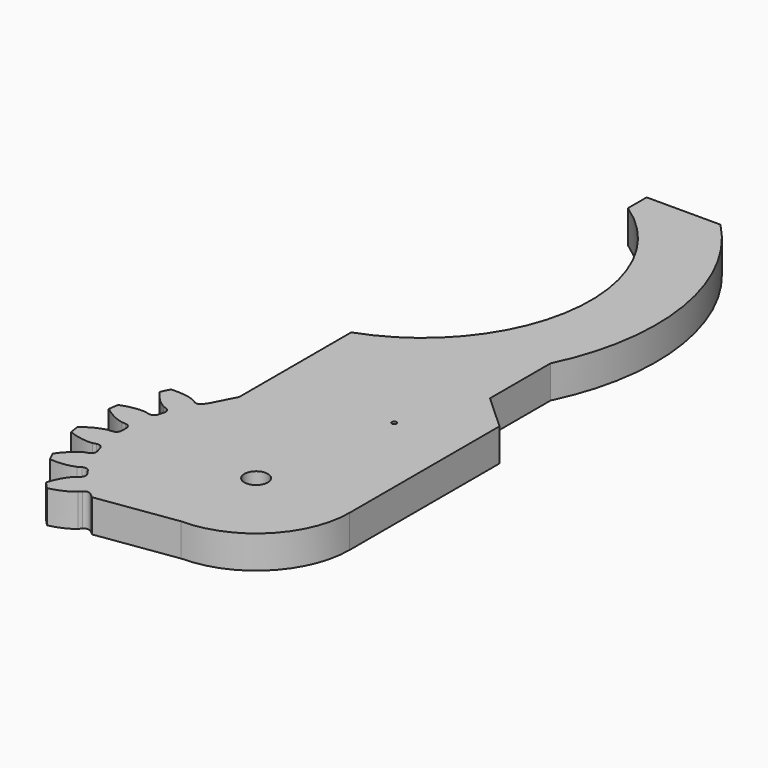
from build123d import *

# Parameters (mm, degrees)
CYLINDER002_R     = 0.5
CYLINDER002_DEPTH = 15
PAD005_DEPTH      = 10
CYLINDER001_R     = 2.5
CYLINDER001_DEPTH = 30
PAD_DEPTH         = 7
PAD001_DEPTH      = 7


with BuildPart() as fixation_servo:
    # Cylinder002 → Cylinder002 (new body)
    with BuildSketch(Plane(origin=(38, 30, 0), x_dir=(1, 0, 0), z_dir=(0, 0, 1))):
        Circle(CYLINDER002_R)
    extrude(amount=CYLINDER002_DEPTH)


with BuildPart() as gearcutter_d:
    # Sketch007 → Pad005 (new body)
    with BuildSketch(Plane.XY):
        with BuildLine():
            Line((20, 31.95888), (45.304215, 31.95888))
            Line((45.304215, 31.95888), (45.304215, -33.652056))
            Line((45.304215, -33.652056), (23.213182, -33.652056))
            Line((-17.372387, -39.01239), (23.213182, -33.652056))
            Line((-25.984375, -33.578197), (-17.372387, -39.01239))
            Line((-17.23691, -22.507347), (-25.984375, -33.578197))
            Line((7e-06, -20), (-17.23691, -22.507347))
            ThreePointArc((7e-06, -20), (14.142138, -14.142133), (20, 0))
            Line((20, 0), (20, 31.95888))
        make_face()
        Polygon((-20, 22.185684), (-22.978563, 16.381247), (-30, 23.81991), (-24.00174, 30), align=None)
    extrude(amount=PAD005_DEPTH)


with BuildPart() as hole:
    # Cylinder001 → Cylinder001 (new body)
    with BuildSketch(Plane.XY.offset(-10)):
        Circle(CYLINDER001_R)
    extrude(amount=CYLINDER001_DEPTH)


with BuildPart() as cut002:
    # InvoluteGear → Pad (new body)
    with BuildSketch(Plane.XY):
        with BuildLine():
            Line((29.216017, -2.627852), (30.02668, -2.698596))
            add(Edge.make_bspline(
                [(30.02668, -2.698596), (30.269336, -2.702327), (31.240634, -2.684194), (32.940327, -2.265756), (35.058609, -1.065575)],
                knots=[0, 0, 0, 0, 0, 1, 1, 1, 1, 1], degree=4))
            ThreePointArc((35.058609, -1.065575), (35.074799, 0), (35.058609, 1.065575))
            add(Edge.make_bspline(
                [(35.058609, 1.065575), (32.940327, 2.265756), (31.240634, 2.684194), (30.269336, 2.702327), (30.02668, 2.698596)],
                knots=[0, 0, 0, 0, 0, 1, 1, 1, 1, 1], degree=4))
            Line((30.02668, 2.698596), (29.216017, 2.627852))
            ThreePointArc((29.216017, 2.627852), (28.398075, 2.874673), (27.979368, 3.61941))
            ThreePointArc((27.979368, 3.61941), (27.89739, 4.204855), (27.803163, 4.788454))
            ThreePointArc((27.803163, 4.788454), (27.983753, 5.62352), (28.692604, 6.100468))
            Line((28.692604, 6.100468), (29.488104, 6.271815))
            add(Edge.make_bspline(
                [(29.488104, 6.271815), (29.72108, 6.339774), (30.64388, 6.643396), (32.144724, 7.544237), (33.815137, 9.315472)],
                knots=[0, 0, 0, 0, 0, 1, 1, 1, 1, 1], degree=4))
            ThreePointArc((33.815137, 9.315472), (33.516524, 10.338478), (33.18697, 11.351941))
            add(Edge.make_bspline(
                [(33.18697, 11.351941), (30.809038, 11.874427), (29.06152, 11.773281), (28.12803, 11.504313), (27.897254, 11.429224)],
                knots=[0, 0, 0, 0, 0, 1, 1, 1, 1, 1], degree=4))
            Line((27.897254, 11.429224), (27.143458, 11.122676))
            ThreePointArc((27.143458, 11.122676), (26.289104, 11.117439), (25.669483, 11.705673))
            ThreePointArc((25.669483, 11.705673), (25.418584, 12.240945), (25.156525, 12.770842))
            ThreePointArc((25.156525, 12.770842), (25.082952, 13.622039), (25.619728, 14.286735))
            Line((25.619728, 14.286735), (26.32938, 14.684947))
            add(Edge.make_bspline(
                [(26.32938, 14.684947), (26.531974, 14.818557), (27.324283, 15.380691), (28.492921, 16.683892), (29.567042, 18.868799)],
                knots=[0, 0, 0, 0, 0, 1, 1, 1, 1, 1], degree=4))
            ThreePointArc((29.567042, 18.868799), (28.980159, 19.758338), (28.366523, 20.629637))
            add(Edge.make_bspline(
                [(28.366523, 20.629637), (25.94023, 20.428003), (24.300163, 19.816261), (23.487425, 19.284092), (23.289034, 19.144315)],
                knots=[0, 0, 0, 0, 0, 1, 1, 1, 1, 1], degree=4))
            Line((23.289034, 19.144315), (22.659084, 18.629202))
            ThreePointArc((22.659084, 18.629202), (21.84423, 18.372372), (21.078752, 18.751836))
            ThreePointArc((21.078752, 18.751836), (20.681226, 19.189373), (20.274619, 19.618485))
            ThreePointArc((20.274619, 19.618485), (19.95342, 20.41018), (20.270426, 21.203563))
            Line((20.270426, 21.203563), (20.831176, 21.793257))
            add(Edge.make_bspline(
                [(20.831176, 21.793257), (20.985387, 21.980647), (21.576804, 22.751344), (22.309397, 24.341109), (22.691785, 26.745549)],
                knots=[0, 0, 0, 0, 0, 1, 1, 1, 1, 1], degree=4))
            ThreePointArc((22.691785, 26.745549), (21.868779, 27.422582), (21.025585, 28.074299))
            add(Edge.make_bspline(
                [(21.025585, 28.074299), (18.766519, 27.166461), (17.37963, 26.098479), (16.759858, 25.350393), (16.611482, 25.15835)],
                knots=[0, 0, 0, 0, 0, 1, 1, 1, 1, 1], degree=4))
            Line((16.611482, 25.15835), (16.161351, 24.480441))
            ThreePointArc((16.161351, 24.480441), (15.4584, 23.994839), (14.615082, 24.131816))
            ThreePointArc((14.615082, 24.131816), (14.10625, 24.432742), (13.591225, 24.72294))
            ThreePointArc((13.591225, 24.72294), (13.05094, 25.384787), (13.120008, 26.236361))
            Line((13.120008, 26.236361), (13.48203, 26.96514))
            add(Edge.make_bspline(
                [(13.48203, 26.96514), (13.574155, 27.18966), (13.912131, 28.10044), (14.143586, 29.835512), (13.800264, 32.245841)],
                knots=[0, 0, 0, 0, 0, 1, 1, 1, 1, 1], degree=4))
            ThreePointArc((13.800264, 32.245841), (12.814263, 32.65021), (11.816433, 33.024437))
            add(Edge.make_bspline(
                [(11.816433, 33.024437), (9.92532, 31.49106), (8.91484, 30.061732), (8.543105, 29.164202), (8.457926, 28.936956)],
                knots=[0, 0, 0, 0, 0, 1, 1, 1, 1, 1], degree=4))
            Line((8.457926, 28.936956), (8.227611, 28.156485))
            ThreePointArc((8.227611, 28.156485), (7.699024, 27.485259), (6.852797, 27.367578))
            ThreePointArc((6.852797, 27.367578), (6.277872, 27.505154), (5.70019, 27.630653))
            ThreePointArc((5.70019, 27.630653), (4.988826, 28.103844), (4.80382, 28.937943))
            Line((4.80382, 28.937943), (4.934946, 29.741053))
            add(Edge.make_bspline(
                [(4.934946, 29.741053), (4.956801, 29.982752), (5.011304, 30.952689), (4.721054, 32.678899), (3.682528, 34.880948)],
                knots=[0, 0, 0, 0, 0, 1, 1, 1, 1, 1], degree=4))
            ThreePointArc((3.682528, 34.880948), (2.621143, 34.976723), (1.557338, 35.040209))
            add(Edge.make_bspline(
                [(1.557338, 35.040209), (0.202213, 33.01754), (-0.342073, 31.353869), (-0.43274, 30.386642), (-0.447153, 30.144385)],
                knots=[0, 0, 0, 0, 0, 1, 1, 1, 1, 1], degree=4))
            Line((-0.447153, 30.144385), (-0.437188, 29.330703))
            ThreePointArc((-0.437188, 29.330703), (-0.744444, 28.533493), (-1.518389, 28.171611))
            ThreePointArc((-1.518389, 28.171611), (-2.108323, 28.133612), (-2.697331, 28.083261))
            ThreePointArc((-2.697331, 28.083261), (-3.516567, 28.325751), (-3.939209, 29.068262))
            Line((-3.939209, 29.068262), (-4.050629, 29.874342))
            add(Edge.make_bspline(
                [(-4.050629, 29.874342), (-4.100987, 30.111745), (-4.3348, 31.054656), (-5.120964, 32.618623), (-6.762416, 34.416729)],
                knots=[0, 0, 0, 0, 0, 1, 1, 1, 1, 1], degree=4))
            ThreePointArc((-6.762416, 34.416729), (-7.804877, 34.195401), (-8.840133, 33.942504))
            add(Edge.make_bspline(
                [(-8.840133, 33.942504), (-9.538861, 31.610267), (-9.56859, 29.860077), (-9.370135, 28.909097), (-9.312501, 28.673354)],
                knots=[0, 0, 0, 0, 0, 1, 1, 1, 1, 1], degree=4))
            Line((-9.312501, 28.673354), (-9.063142, 27.898758))
            ThreePointArc((-9.063142, 27.898758), (-9.121765, 27.046401), (-9.754659, 26.472472))
            ThreePointArc((-9.754659, 26.472472), (-10.307184, 26.262276), (-10.855183, 26.040548))
            ThreePointArc((-10.855183, 26.040548), (-11.709498, 26.030791), (-12.332222, 26.615739))
            Line((-12.332222, 26.615739), (-12.676288, 27.353165))
            add(Edge.make_bspline(
                [(-12.676288, 27.353165), (-12.794385, 27.565178), (-13.295737, 28.39728), (-14.507962, 29.660038), (-16.60649, 30.894434)],
                knots=[0, 0, 0, 0, 0, 1, 1, 1, 1, 1], degree=4))
            ThreePointArc((-16.60649, 30.894434), (-17.537399, 30.375667), (-18.452119, 29.828859))
            add(Edge.make_bspline(
                [(-18.452119, 29.828859), (-18.432366, 27.394282), (-17.944897, 25.713086), (-17.474952, 24.862851), (-17.350392, 24.65457)],
                knots=[0, 0, 0, 0, 0, 1, 1, 1, 1, 1], degree=4))
            Line((-17.350392, 24.65457), (-16.883795, 23.987887))
            ThreePointArc((-16.883795, 23.987887), (-16.688578, 23.156118), (-17.124185, 22.421138))
            ThreePointArc((-17.124185, 22.421138), (-17.590206, 22.057421), (-18.048504, 21.684019))
            ThreePointArc((-18.048504, 21.684019), (-18.861988, 21.422881), (-19.629463, 21.79829))
            Line((-19.629463, 21.79829), (-20.175603, 22.401539))
            add(Edge.make_bspline(
                [(-20.175603, 22.401539), (-20.350945, 22.569323), (-21.07529, 23.216681), (-22.605863, 24.066029), (-24.975004, 24.627032)],
                knots=[0, 0, 0, 0, 0, 1, 1, 1, 1, 1], degree=4))
            ThreePointArc((-24.975004, 24.627032), (-25.711647, 23.856922), (-26.424554, 23.064789))
            add(Edge.make_bspline(
                [(-26.424554, 23.064789), (-25.688074, 20.744196), (-24.726721, 19.281374), (-24.027043, 18.607432), (-23.846625, 18.445118)],
                knots=[0, 0, 0, 0, 0, 1, 1, 1, 1, 1], degree=4))
            Line((-23.846625, 18.445118), (-23.204249, 17.945586))
            ThreePointArc((-23.204249, 17.945586), (-22.772537, 17.208312), (-22.972152, 16.377588))
            ThreePointArc((-22.972152, 16.377588), (-23.310261, 15.892667), (-23.638136, 15.400768))
            ThreePointArc((-23.638136, 15.400768), (-24.338508, 14.911454), (-25.182539, 15.043968))
            Line((-25.182539, 15.043968), (-25.882227, 15.459439))
            add(Edge.make_bspline(
                [(-25.882227, 15.459439), (-26.099234, 15.568085), (-26.982211, 15.973178), (-28.695135, 16.333648), (-31.12438, 16.17141)],
                knots=[0, 0, 0, 0, 0, 1, 1, 1, 1, 1], degree=4))
            ThreePointArc((-31.12438, 16.17141), (-31.601302, 15.218385), (-32.049051, 14.251311))
            add(Edge.make_bspline(
                [(-32.049051, 14.251311), (-30.661284, 12.250897), (-29.311467, 11.136428), (-28.444225, 10.698661), (-28.22398, 10.596737)],
                knots=[0, 0, 0, 0, 0, 1, 1, 1, 1, 1], degree=4))
            Line((-28.22398, 10.596737), (-27.462904, 10.308742))
            ThreePointArc((-27.462904, 10.308742), (-26.833056, 9.731472), (-26.778943, 8.878817))
            ThreePointArc((-26.778943, 8.878817), (-26.959098, 8.31578), (-27.127416, 7.749093))
            ThreePointArc((-27.127416, 7.749093), (-27.652445, 7.075079), (-28.498037, 6.952923))
            Line((-28.498037, 6.952923), (-29.289102, 7.143699))
            add(Edge.make_bspline(
                [(-29.289102, 7.143699), (-29.528492, 7.183554), (-30.491644, 7.310388), (-32.234718, 7.14995), (-34.508218, 6.278888)],
                knots=[0, 0, 0, 0, 0, 1, 1, 1, 1, 1], degree=4))
            ThreePointArc((-34.508218, 6.278888), (-34.683042, 5.227628), (-34.825849, 4.171541))
            add(Edge.make_bspline(
                [(-34.825849, 4.171541), (-32.910105, 2.669052), (-31.29176, 2.001961), (-30.334014, 1.839267), (-30.093511, 1.80679)],
                knots=[0, 0, 0, 0, 0, 1, 1, 1, 1, 1], degree=4))
            Line((-30.093511, 1.80679), (-29.281359, 1.75592))
            ThreePointArc((-29.281359, 1.75592), (-28.50934, 1.389948), (-28.206307, 0.591124))
            ThreePointArc((-28.206307, 0.591124), (-28.2125, 0), (-28.206307, -0.591124))
            ThreePointArc((-28.206307, -0.591124), (-28.50934, -1.389948), (-29.281359, -1.75592))
            Line((-29.281359, -1.75592), (-30.093511, -1.80679))
            add(Edge.make_bspline(
                [(-30.093511, -1.80679), (-30.334014, -1.839267), (-31.29176, -2.001961), (-32.910105, -2.669052), (-34.825849, -4.171541)],
                knots=[0, 0, 0, 0, 0, 1, 1, 1, 1, 1], degree=4))
            ThreePointArc((-34.825849, -4.171541), (-34.683042, -5.227628), (-34.508218, -6.278888))
            add(Edge.make_bspline(
                [(-34.508218, -6.278888), (-32.234718, -7.14995), (-30.491644, -7.310388), (-29.528492, -7.183554), (-29.289102, -7.143699)],
                knots=[0, 0, 0, 0, 0, 1, 1, 1, 1, 1], degree=4))
            Line((-29.289102, -7.143699), (-28.498037, -6.952923))
            ThreePointArc((-28.498037, -6.952923), (-27.652445, -7.075079), (-27.127416, -7.749093))
            ThreePointArc((-27.127416, -7.749093), (-26.959098, -8.31578), (-26.778943, -8.878817))
            ThreePointArc((-26.778943, -8.878817), (-26.833056, -9.731472), (-27.462904, -10.308742))
            Line((-27.462904, -10.308742), (-28.22398, -10.596737))
            add(Edge.make_bspline(
                [(-28.22398, -10.596737), (-28.444225, -10.698661), (-29.311467, -11.136428), (-30.661284, -12.250897), (-32.049051, -14.251311)],
                knots=[0, 0, 0, 0, 0, 1, 1, 1, 1, 1], degree=4))
            ThreePointArc((-32.049051, -14.251311), (-31.601302, -15.218385), (-31.12438, -16.17141))
            add(Edge.make_bspline(
                [(-31.12438, -16.17141), (-28.695135, -16.333648), (-26.982211, -15.973178), (-26.099234, -15.568085), (-25.882227, -15.459439)],
                knots=[0, 0, 0, 0, 0, 1, 1, 1, 1, 1], degree=4))
            Line((-25.882227, -15.459439), (-25.182539, -15.043968))
            ThreePointArc((-25.182539, -15.043968), (-24.338508, -14.911454), (-23.638136, -15.400768))
            ThreePointArc((-23.638136, -15.400768), (-23.310261, -15.892667), (-22.972152, -16.377588))
            ThreePointArc((-22.972152, -16.377588), (-22.772537, -17.208312), (-23.204249, -17.945586))
            Line((-23.204249, -17.945586), (-23.846625, -18.445118))
            add(Edge.make_bspline(
                [(-23.846625, -18.445118), (-24.027043, -18.607432), (-24.726721, -19.281374), (-25.688074, -20.744196), (-26.424554, -23.064789)],
                knots=[0, 0, 0, 0, 0, 1, 1, 1, 1, 1], degree=4))
            ThreePointArc((-26.424554, -23.064789), (-25.711647, -23.856922), (-24.975004, -24.627032))
            add(Edge.make_bspline(
                [(-24.975004, -24.627032), (-22.605863, -24.066029), (-21.07529, -23.216681), (-20.350945, -22.569323), (-20.175603, -22.401539)],
                knots=[0, 0, 0, 0, 0, 1, 1, 1, 1, 1], degree=4))
            Line((-20.175603, -22.401539), (-19.629463, -21.79829))
            ThreePointArc((-19.629463, -21.79829), (-18.861988, -21.422881), (-18.048504, -21.684019))
            ThreePointArc((-18.048504, -21.684019), (-17.590206, -22.057421), (-17.124185, -22.421138))
            ThreePointArc((-17.124185, -22.421138), (-16.688578, -23.156118), (-16.883795, -23.987887))
            Line((-16.883795, -23.987887), (-17.350392, -24.65457))
            add(Edge.make_bspline(
                [(-17.350392, -24.65457), (-17.474952, -24.862851), (-17.944897, -25.713086), (-18.432366, -27.394282), (-18.452119, -29.828859)],
                knots=[0, 0, 0, 0, 0, 1, 1, 1, 1, 1], degree=4))
            ThreePointArc((-18.452119, -29.828859), (-17.537399, -30.375667), (-16.60649, -30.894434))
            add(Edge.make_bspline(
                [(-16.60649, -30.894434), (-14.507962, -29.660038), (-13.295737, -28.39728), (-12.794385, -27.565178), (-12.676288, -27.353165)],
                knots=[0, 0, 0, 0, 0, 1, 1, 1, 1, 1], degree=4))
            Line((-12.676288, -27.353165), (-12.332222, -26.615739))
            ThreePointArc((-12.332222, -26.615739), (-11.709498, -26.030791), (-10.855183, -26.040548))
            ThreePointArc((-10.855183, -26.040548), (-10.307184, -26.262276), (-9.754659, -26.472472))
            ThreePointArc((-9.754659, -26.472472), (-9.121765, -27.046401), (-9.063142, -27.898758))
            Line((-9.063142, -27.898758), (-9.312501, -28.673354))
            add(Edge.make_bspline(
                [(-9.312501, -28.673354), (-9.370135, -28.909097), (-9.56859, -29.860077), (-9.538861, -31.610267), (-8.840133, -33.942504)],
                knots=[0, 0, 0, 0, 0, 1, 1, 1, 1, 1], degree=4))
            ThreePointArc((-8.840133, -33.942504), (-7.804877, -34.195401), (-6.762416, -34.416729))
            add(Edge.make_bspline(
                [(-6.762416, -34.416729), (-5.120964, -32.618623), (-4.3348, -31.054656), (-4.100987, -30.111745), (-4.050629, -29.874342)],
                knots=[0, 0, 0, 0, 0, 1, 1, 1, 1, 1], degree=4))
            Line((-4.050629, -29.874342), (-3.939209, -29.068262))
            ThreePointArc((-3.939209, -29.068262), (-3.516567, -28.325751), (-2.697331, -28.083261))
            ThreePointArc((-2.697331, -28.083261), (-2.108323, -28.133612), (-1.518389, -28.171611))
            ThreePointArc((-1.518389, -28.171611), (-0.744444, -28.533493), (-0.437188, -29.330703))
            Line((-0.437188, -29.330703), (-0.447153, -30.144385))
            add(Edge.make_bspline(
                [(-0.447153, -30.144385), (-0.43274, -30.386642), (-0.342073, -31.353869), (0.202213, -33.01754), (1.557338, -35.040209)],
                knots=[0, 0, 0, 0, 0, 1, 1, 1, 1, 1], degree=4))
            ThreePointArc((1.557338, -35.040209), (2.621143, -34.976723), (3.682528, -34.880948))
            add(Edge.make_bspline(
                [(3.682528, -34.880948), (4.721054, -32.678899), (5.011304, -30.952689), (4.956801, -29.982752), (4.934946, -29.741053)],
                knots=[0, 0, 0, 0, 0, 1, 1, 1, 1, 1], degree=4))
            Line((4.934946, -29.741053), (4.80382, -28.937943))
            ThreePointArc((4.80382, -28.937943), (4.988826, -28.103844), (5.70019, -27.630653))
            ThreePointArc((5.70019, -27.630653), (6.277872, -27.505154), (6.852797, -27.367578))
            ThreePointArc((6.852797, -27.367578), (7.699024, -27.485259), (8.227611, -28.156485))
            Line((8.227611, -28.156485), (8.457926, -28.936956))
            add(Edge.make_bspline(
                [(8.457926, -28.936956), (8.543105, -29.164202), (8.91484, -30.061732), (9.92532, -31.49106), (11.816433, -33.024437)],
                knots=[0, 0, 0, 0, 0, 1, 1, 1, 1, 1], degree=4))
            ThreePointArc((11.816433, -33.024437), (12.814263, -32.65021), (13.800264, -32.245841))
            add(Edge.make_bspline(
                [(13.800264, -32.245841), (14.143586, -29.835512), (13.912131, -28.10044), (13.574155, -27.18966), (13.48203, -26.96514)],
                knots=[0, 0, 0, 0, 0, 1, 1, 1, 1, 1], degree=4))
            Line((13.48203, -26.96514), (13.120008, -26.236361))
            ThreePointArc((13.120008, -26.236361), (13.05094, -25.384787), (13.591225, -24.72294))
            ThreePointArc((13.591225, -24.72294), (14.10625, -24.432742), (14.615082, -24.131816))
            ThreePointArc((14.615082, -24.131816), (15.4584, -23.994839), (16.161351, -24.480441))
            Line((16.161351, -24.480441), (16.611482, -25.15835))
            add(Edge.make_bspline(
                [(16.611482, -25.15835), (16.759858, -25.350393), (17.37963, -26.098479), (18.766519, -27.166461), (21.025585, -28.074299)],
                knots=[0, 0, 0, 0, 0, 1, 1, 1, 1, 1], degree=4))
            ThreePointArc((21.025585, -28.074299), (21.868779, -27.422582), (22.691785, -26.745549))
            add(Edge.make_bspline(
                [(22.691785, -26.745549), (22.309397, -24.341109), (21.576804, -22.751344), (20.985387, -21.980647), (20.831176, -21.793257)],
                knots=[0, 0, 0, 0, 0, 1, 1, 1, 1, 1], degree=4))
            Line((20.831176, -21.793257), (20.270426, -21.203563))
            ThreePointArc((20.270426, -21.203563), (19.95342, -20.41018), (20.274619, -19.618485))
            ThreePointArc((20.274619, -19.618485), (20.681226, -19.189373), (21.078752, -18.751836))
            ThreePointArc((21.078752, -18.751836), (21.84423, -18.372372), (22.659084, -18.629202))
            Line((22.659084, -18.629202), (23.289034, -19.144315))
            add(Edge.make_bspline(
                [(23.289034, -19.144315), (23.487425, -19.284092), (24.300163, -19.816261), (25.94023, -20.428003), (28.366523, -20.629637)],
                knots=[0, 0, 0, 0, 0, 1, 1, 1, 1, 1], degree=4))
            ThreePointArc((28.366523, -20.629637), (28.980159, -19.758338), (29.567042, -18.868799))
            add(Edge.make_bspline(
                [(29.567042, -18.868799), (28.492921, -16.683892), (27.324283, -15.380691), (26.531974, -14.818557), (26.32938, -14.684947)],
                knots=[0, 0, 0, 0, 0, 1, 1, 1, 1, 1], degree=4))
            Line((26.32938, -14.684947), (25.619728, -14.286735))
            ThreePointArc((25.619728, -14.286735), (25.082952, -13.622039), (25.156525, -12.770842))
            ThreePointArc((25.156525, -12.770842), (25.418584, -12.240945), (25.669483, -11.705673))
            ThreePointArc((25.669483, -11.705673), (26.289104, -11.117439), (27.143458, -11.122676))
            Line((27.143458, -11.122676), (27.897254, -11.429224))
            add(Edge.make_bspline(
                [(27.897254, -11.429224), (28.12803, -11.504313), (29.06152, -11.773281), (30.809038, -11.874427), (33.18697, -11.351941)],
                knots=[0, 0, 0, 0, 0, 1, 1, 1, 1, 1], degree=4))
            ThreePointArc((33.18697, -11.351941), (33.516524, -10.338478), (33.815137, -9.315472))
            add(Edge.make_bspline(
                [(33.815137, -9.315472), (32.144724, -7.544237), (30.64388, -6.643396), (29.72108, -6.339774), (29.488104, -6.271815)],
                knots=[0, 0, 0, 0, 0, 1, 1, 1, 1, 1], degree=4))
            Line((29.488104, -6.271815), (28.692604, -6.100468))
            ThreePointArc((28.692604, -6.100468), (27.983753, -5.62352), (27.803163, -4.788454))
            ThreePointArc((27.803163, -4.788454), (27.89739, -4.204855), (27.979368, -3.61941))
            ThreePointArc((27.979368, -3.61941), (28.398075, -2.874673), (29.216017, -2.627852))
        make_face()
    extrude(amount=PAD_DEPTH)

    # Cut: cut hole
    add(hole.part, mode=Mode.SUBTRACT)

    # Cut002: cut gearcutter_d
    add(gearcutter_d.part, mode=Mode.SUBTRACT)


with BuildPart() as clone_of_pad002:
    # Sketch001 → Pad001 (new body)
    with BuildSketch(Plane.XY):
        with BuildLine():
            Line((20.522763, 10), (-20, 10))
            Line((-20, 10), (-20, 40))
            Line((-20, 40), (-12.44178, 46.907085))
            Line((-12.44178, 63.085703), (-12.44178, 46.907085))
            ThreePointArc((-3.272439, 119.933259), (-16.862004, 92.961944), (-12.44178, 63.085703))
            Line((12.5, 119.933259), (-3.272439, 119.933259))
            Line((12.5, 119.933259), (12.5, 114.933259))
            ThreePointArc((12.5, 114.933259), (-3.21942, 80.514127), (20.522763, 51.050835))
            Line((20.522763, 51.050835), (20.522763, 10))
        make_face()
    extrude(amount=PAD001_DEPTH)


with BuildPart() as obj1:
    # Part__Mirroring: instance of Clone of Pad002
    add(clone_of_pad002.part.mirror(Plane(origin=(0, 0, 0), x_dir=(0, -1, 0), z_dir=(1, 0, 0))))

    # Fusion001: union Cut002
    add(cut002.part)


with BuildPart() as obj1_1:
    # Clone013 placement: moved
    add(obj1.part.moved(Location((32.5, 0, 0))))

    # Cut006: cut fixation_servo
    add(fixation_servo.part, mode=Mode.SUBTRACT)


solid = obj1_1.part
